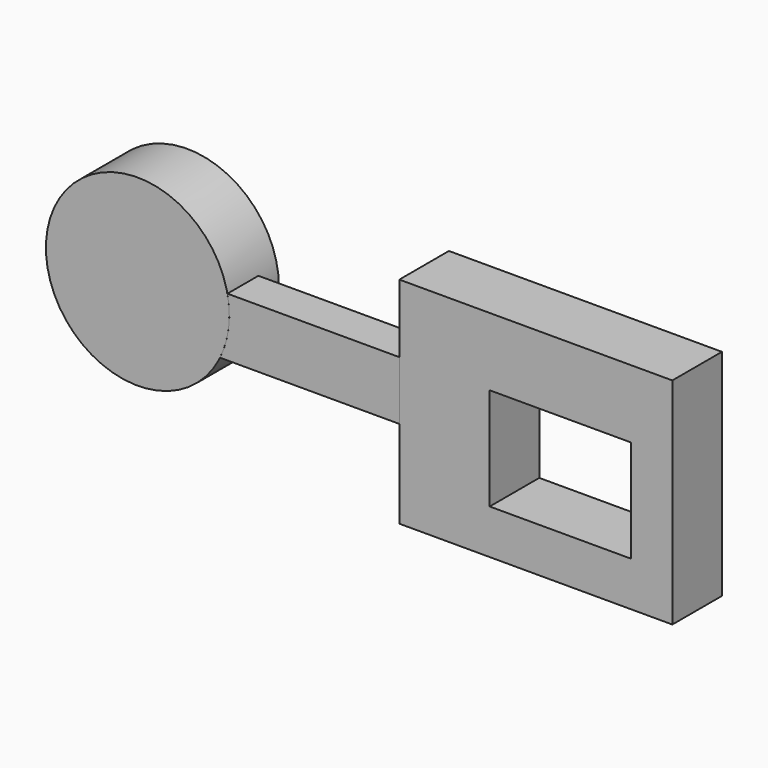
from build123d import *

# Parameters (mm, degrees)
F0_W     = 111.8664443493
F0_H     = 88.0598053336
F0_W_2   = 57.8619539738
F0_H_2   = 41.9301427901
F0_R     = 37.5795761557
F1_DEPTH = 25.4
F2_W     = 15.8524134472
F2_H     = 24.0868339315


with BuildPart() as f1:
    # F0 (on Front) → F1 (new body)
    with BuildSketch(Plane.XZ):
        with Locations((-1.542981714, 0.7118172944)):
            Rectangle(F0_W, F0_H)
        with Locations((8.4864236414, -4.1078682989)):
            Rectangle(F0_W_2, F0_H_2, mode=Mode.SUBTRACT)
        with Locations((-164.7136956453, 9.1559626162)):
            Circle(F0_R)
    extrude(amount=F1_DEPTH)


with BuildPart() as f3:
    # F2 (on face) → F3 (new body, up to the next surface of F1)
    with BuildSketch(Plane(origin=(-57.4762038887, 0, 0), x_dir=(0, -1, 0), z_dir=(-1, 0, 0))):
        with Locations((17.4737932764, 4.7207414173)):
            Rectangle(F2_W, F2_H)
    extrude(until=Until.NEXT, target=f1.part)


solid = Compound([f1.part, f3.part])
